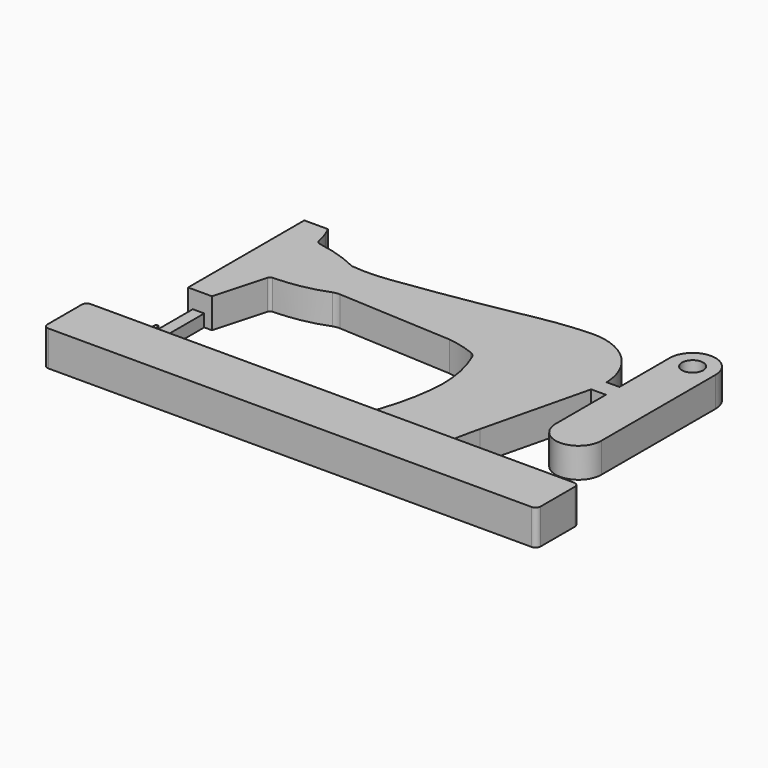
from build123d import *

# Parameters (mm, degrees)
PAD_DEPTH    = 20
PAD001_DEPTH = 17
PAD002_DEPTH = 7
SKETCH003_R  = 6
PAD003_DEPTH = 17


with BuildPart() as part:
    # Sketch → Pad (new body)
    with BuildSketch(Plane.XY):
        with BuildLine():
            Line((-137.2, 15), (137.2, 15))
            ThreePointArc((140, 12.2), (139.179899, 14.179899), (137.2, 15))
            Line((140, 12.2), (140, -12.2))
            ThreePointArc((137.2, -15), (139.179899, -14.179899), (140, -12.2))
            Line((137.2, -15), (-137.2, -15))
            ThreePointArc((-140, -12.2), (-139.179899, -14.179899), (-137.2, -15))
            Line((-140, -12.2), (-140, 12.2))
            ThreePointArc((-137.2, 15), (-139.179899, 14.179899), (-140, 12.2))
        make_face()
    extrude(amount=PAD_DEPTH)

    # Sketch001 → Pad001 (join)
    with BuildSketch(Plane.XY):
        with BuildLine():
            Line((20, 15), (22.1, 21.151423))
            ThreePointArc((22.1, 21.151423), (26.084071, 35.297898), (28.506759, 49.793628))
            ThreePointArc((28.506759, 49.793628), (28.121583, 67.94836), (23.000038, 85.369969))
            ThreePointArc((23.000038, 85.369969), (21.647561, 87.291244), (19.665958, 88.553679))
            ThreePointArc((19.665958, 88.553679), (12.226217, 90.931231), (4.547172, 92.357678))
            Line((4.547172, 92.357678), (-60.358943, 95.85))
            ThreePointArc((-60.358943, 95.85), (-62.26695, 95.75226), (-64.112729, 95.259163))
            ThreePointArc((-93.580829, 89.63501), (-78.596692, 91.136741), (-64.112729, 95.259163))
            ThreePointArc((-93.580829, 89.63501), (-94.676562, 89.247507), (-95.307077, 88.271167))
            Line((-95.307077, 88.271167), (-103.55, 58.933029))
            Line((-103.55, 58.933029), (-117.05, 58.933029))
            Line((-117.05, 58.933029), (-117.05, 141.429498))
            Line((-117.05, 141.429498), (-103.55, 141.429498))
            Line((-103.55, 141.429498), (-101.962901, 137.695318))
            ThreePointArc((-99.730837, 130.200634), (-100.635987, 134.010781), (-101.962901, 137.695318))
            ThreePointArc((-99.730837, 130.200634), (-98.973948, 128.771589), (-97.527521, 128.048472))
            ThreePointArc((-73.043885, 120.301604), (-84.988985, 125.112804), (-97.527521, 128.048472))
            ThreePointArc((-73.043885, 120.301604), (-62.760476, 119.837158), (-52.493885, 120.586391))
            ThreePointArc((-52.493885, 120.586391), (-15.446113, 126.09186), (21.410751, 132.756629))
            ThreePointArc((50.093063, 136.129962), (35.68651, 134.999351), (21.410751, 132.756629))
            ThreePointArc((83.803112, 94.973278), (77.196218, 123.945517), (50.093063, 136.129962))
            Line((83.803112, 94.973278), (68.949285, 33.703042))
            ThreePointArc((68.949285, 33.703042), (66.835565, 24.380889), (65, 15))
            Line((65, 15), (20, 15))
        make_face()
    extrude(amount=PAD001_DEPTH)

    # Sketch002 → Pad002 (join)
    with BuildSketch(Plane.XY):
        with BuildLine():
            Line((-114.376267, 58.938084), (-107.876267, 58.938084))
            Line((-107.876267, 31.188084), (-107.876267, 58.938084))
            Line((-106.176267, 31.188084), (-107.876267, 31.188084))
            Line((-106.176267, 31.188084), (-106.176267, 31.513084))
            ThreePointArc((-103.876267, 31.513084), (-105.026267, 32.663084), (-106.176267, 31.513084))
            Line((-103.876267, 31.513084), (-103.876267, 30.463084))
            ThreePointArc((-106.176267, 30.463084), (-105.026267, 29.313084), (-103.876267, 30.463084))
            Line((-106.176267, 30.463084), (-106.176267, 30.788084))
            Line((-107.876267, 30.788084), (-106.176267, 30.788084))
            Line((-107.876267, 26.938084), (-107.876267, 30.788084))
            Line((-110.826267, 26.938084), (-107.876267, 26.938084))
            Line((-110.826267, 19.138084), (-110.826267, 26.938084))
            Line((-111.126267, 17.821839), (-110.826267, 19.138084))
            Line((-111.426267, 19.138084), (-111.126267, 17.821839))
            Line((-111.426267, 26.938084), (-111.426267, 19.138084))
            Line((-114.376267, 26.938084), (-111.426267, 26.938084))
            Line((-114.376267, 32.538084), (-114.376267, 26.938084))
            Line((-115.926267, 32.538084), (-114.376267, 32.538084))
            Line((-115.926267, 32.538084), (-115.926267, 29.688084))
            ThreePointArc((-117.926267, 29.688084), (-116.926267, 28.688084), (-115.926267, 29.688084))
            Line((-117.926267, 36.188084), (-117.926267, 29.688084))
            ThreePointArc((-115.926267, 36.188084), (-116.926267, 37.188084), (-117.926267, 36.188084))
            Line((-115.926267, 36.188084), (-115.926267, 33.338084))
            Line((-115.926267, 33.338084), (-114.376267, 33.338084))
            Line((-114.376267, 58.938084), (-114.376267, 33.338084))
        make_face()
    extrude(amount=PAD002_DEPTH)

    # Sketch003 → Pad003 (join)
    with BuildSketch(Plane.XY):
        with BuildLine():
            ThreePointArc((118, 139.5), (105, 152.5), (92, 139.5))
            Line((92, 139.5), (92, 103.8))
            Line((83.55, 103.8), (92, 103.8))
            Line((83.55, 94.199976), (83.55, 103.8))
            Line((92, 94.199976), (83.55, 94.199976))
            Line((92, 58.499976), (92, 94.199976))
            ThreePointArc((92, 58.499976), (105.000012, 45.5), (118, 58.5))
            Line((118, 139.5), (118, 58.5))
        make_face()
        with Locations((105, 139.5)):
            Circle(SKETCH003_R, mode=Mode.SUBTRACT)
    extrude(amount=PAD003_DEPTH)


solid = part.part
